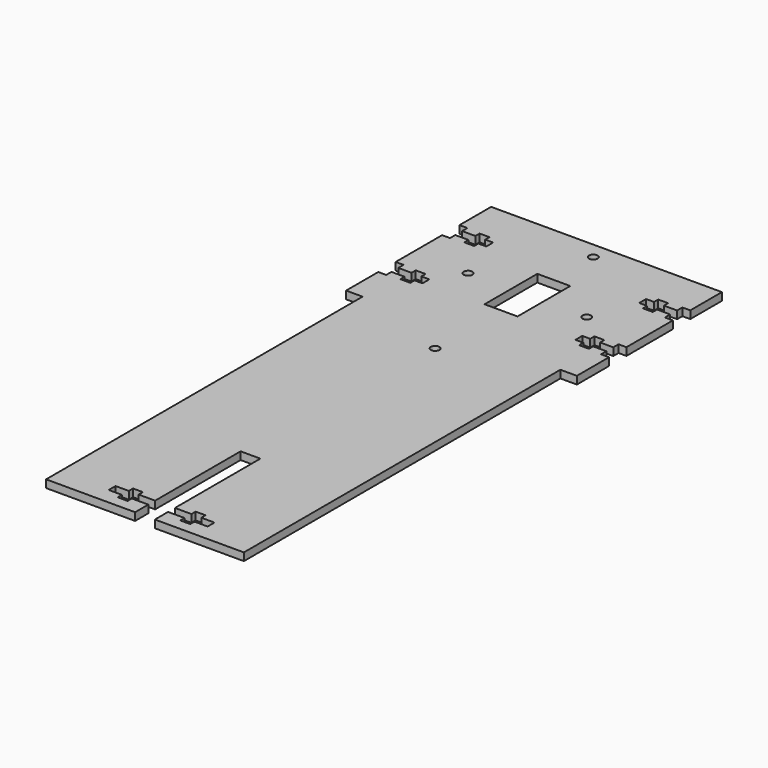
from build123d import *

# Parameters (mm, degrees)
F1_DEPTH = 2.9718
F2_R     = 1.651
F2_W     = 12.7
F2_H     = 25.4
F3_DEPTH = 2.9728


with BuildPart() as f1:
    # F0 (on Top) → F1 (new body)
    with BuildSketch(Plane.XY):
        Polygon((0, 152.4), (0, 0), (76.2, 0), (76.2, 152.4), (82.55, 152.4), (82.55, 222.25), (76.2, 222.25), (0, 222.25), (-6.35, 222.25), (-6.35, 152.4), align=None)
    extrude(amount=F1_DEPTH)

    # F2 (on face) → F3 (cut, through all)
    with BuildSketch(Plane.XY.offset(2.9718)):
        with Locations((38.1, 215.9)):
            Circle(F2_R)
        with Locations((60.96, 184.15)):
            Circle(F2_R)
        with Locations((15.24, 184.15)):
            Circle(F2_R)
        with Locations((38.1, 184.15)):
            Rectangle(F2_W, F2_H)
        Polygon((34.29, 6.35), (34.29, 0), (41.91, 0), (41.91, 6.35), (48.26, 6.35), (48.26, 4.318), (52.07, 4.318), (52.07, 6.35), (57.15, 6.35), (57.15, 9.652), (52.07, 9.652), (52.07, 11.684), (48.26, 11.684), (48.26, 9.652), (41.91, 9.652), (41.91, 50.8), (34.29, 50.8), (34.29, 9.652), (27.94, 9.652), (27.94, 11.684), (24.13, 11.684), (24.13, 9.652), (19.05, 9.652), (19.05, 6.35), (24.13, 6.35), (24.13, 4.318), (27.94, 4.318), (27.94, 6.35), align=None)
        with Locations((101.6, 63.5)):
            Circle(F2_R)
        Polygon((-3.302, 176.275976), (-6.35, 176.275976), (-6.35, 167.893976), (-3.302, 167.893976), (-3.302, 170.433976), (1.778, 170.433976), (1.778, 168.401976), (5.588, 168.401976), (5.588, 170.433976), (8.636, 170.433976), (8.636, 173.735976), (5.588, 173.735976), (5.588, 175.767976), (1.778, 175.767976), (1.778, 173.735976), (-3.302, 173.735976), align=None)
        Polygon((-3.302002, 207.009976), (-6.350002, 207.009976), (-6.350002, 198.627976), (-3.302002, 198.627976), (-3.302002, 201.167976), (1.777998, 201.167976), (1.777998, 199.135976), (5.587998, 199.135976), (5.587998, 201.167976), (8.635998, 201.167976), (8.635998, 204.469976), (5.587998, 204.469976), (5.587998, 206.501976), (1.777998, 206.501976), (1.777998, 204.469976), (-3.302002, 204.469976), align=None)
        Polygon((79.502, 198.627971), (82.55, 198.627971), (82.55, 207.009971), (79.502, 207.009971), (79.502, 204.469971), (74.422, 204.469971), (74.422, 206.501971), (70.612, 206.501971), (70.612, 204.469971), (67.564, 204.469971), (67.564, 201.167971), (70.612, 201.167971), (70.612, 199.135971), (74.422, 199.135971), (74.422, 201.167971), (79.502, 201.167971), align=None)
        Polygon((79.502002, 167.893971), (82.550002, 167.893971), (82.550002, 176.275971), (79.502002, 176.275971), (79.502002, 173.735971), (74.422002, 173.735971), (74.422002, 175.767971), (70.612002, 175.767971), (70.612002, 173.735971), (67.564002, 173.735971), (67.564002, 170.433971), (70.612002, 170.433971), (70.612002, 168.401971), (74.422002, 168.401971), (74.422002, 170.433971), (79.502002, 170.433971), align=None)
        with Locations((38.1, 139.7)):
            Circle(F2_R)
    extrude(amount=-F3_DEPTH, mode=Mode.SUBTRACT)


solid = f1.part
